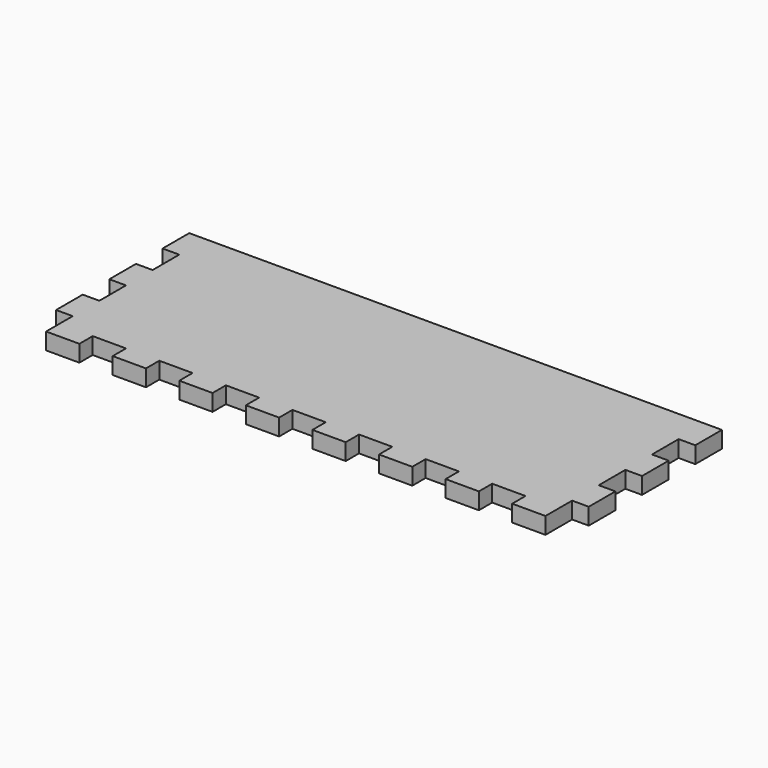
from build123d import *

# Parameters (mm, degrees)
F1_DEPTH = 6.35


with BuildPart() as f1:
    # F0 (on Top) → F1 (new body)
    with BuildSketch(Plane.XY):
        Polygon((203.2, 0), (0, 0), (0, -12.7), (6.35, -12.7), (6.35, -25.4), (0, -25.4), (0, -38.1), (6.35, -38.1), (6.35, -50.8), (0, -50.8), (0, -63.5), (6.35, -63.5), (6.35, -76.2), (19.05, -76.2), (19.05, -69.85), (31.75, -69.85), (31.75, -76.2), (44.45, -76.2), (44.45, -69.85), (57.15, -69.85), (57.15, -76.2), (69.85, -76.2), (69.85, -69.85), (82.55, -69.85), (82.55, -76.2), (95.25, -76.2), (95.25, -69.85), (107.95, -69.85), (107.95, -76.2), (120.65, -76.2), (120.65, -69.85), (133.35, -69.85), (133.35, -76.2), (146.05, -76.2), (146.05, -69.85), (158.75, -69.85), (158.75, -76.2), (171.45, -76.2), (171.45, -69.85), (184.15, -69.85), (184.15, -76.2), (196.85, -76.2), (196.85, -63.5), (203.2, -63.5), (203.2, -50.8), (196.85, -50.8), (196.85, -38.1), (203.2, -38.1), (203.2, -25.4), (196.85, -25.4), (196.85, -12.7), (203.2, -12.7), align=None)
    extrude(amount=F1_DEPTH)


solid = f1.part
